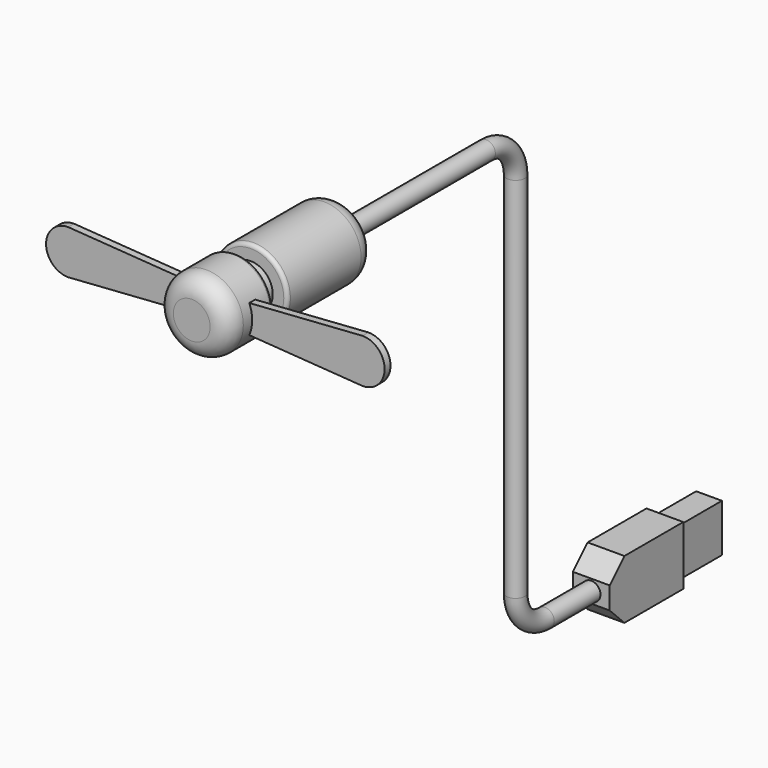
from build123d import *

# Parameters (mm, degrees)
F0_W      = 40
F0_H      = 16
F1_DEPTH  = 10
F3_R      = 2.5
F6_R      = 10
F7_DEPTH  = 50
F8_R      = 5
F9_SIZE   = 5
F10_W     = 10
F10_H     = 16
F10_W_2   = 7
F10_H_2   = 13
F11_DEPTH = 15
F13_R     = 10
F13_R_2   = 6
F14_DEPTH = 5
F15_R     = 1
F18_DEPTH = 2


with BuildPart() as f1:
    # F0 (on Right) → F1 (new body)
    with BuildSketch(Plane.YZ):
        Rectangle(F0_W, F0_H)
    extrude(amount=F1_DEPTH)

    # F5: sweep along a path in F4
    with BuildLine(Plane.YZ.offset(5)) as f5_path:
        Line((-19.998556003, 0), (-35.6984053552, 0))
        ThreePointArc((-35.6984053552, 0), (-42.7694731671, 2.9289321881), (-45.6984053552, 10))
        Line((-45.6984053552, 10), (-45.6984053552, 110))
        ThreePointArc((-45.6984053552, 110), (-48.6273375433, 117.0710678119), (-55.6984053552, 120))
        Line((-55.6984053552, 120), (-155.6984053552, 120))
    # F3 (on face) → F5 (sweep)
    with BuildSketch(Plane.XZ.offset(20)):
        with Locations((5, 0)):
            Circle(F3_R)
    sweep(path=f5_path.line)

    # F6 (on face) → F7 (join)
    with BuildSketch(Plane.XZ.offset(155.6998493522)):
        with Locations((5, 120)):
            Circle(F6_R)
    extrude(amount=-F7_DEPTH)

    # F8
    f8_edges = [f1.edges().sort_by_distance(p)[0] for p in [
        (-5, -105.699849, 120),
        (-5, -155.699849, 120),
    ]]
    fillet(f8_edges, radius=F8_R)

    # F9
    f9_edges = [f1.edges().sort_by_distance(p)[0] for p in [
        (5, -20, 8),
        (5, -20, -8),
    ]]
    chamfer(f9_edges, length=F9_SIZE)

    # F10 (on face) → F11 (cut)
    with BuildSketch(Plane(origin=(0, 20, 0), x_dir=(-1, 0, 0), z_dir=(0, 1, 0))):
        with Locations((-5, 0)):
            Rectangle(F10_W, F10_H)
        with Locations((-5, 0)):
            Rectangle(F10_W_2, F10_H_2, mode=Mode.SUBTRACT)
    extrude(amount=-F11_DEPTH, mode=Mode.SUBTRACT)

    # F13 (on offset) → F14 (cut)
    with BuildSketch(Plane(origin=(0, -135.6998493522, 0), x_dir=(-1, 0, 0), z_dir=(0, 1, 0))):
        with Locations((-5, 120)):
            Circle(F13_R)
        with Locations((-5, 120)):
            Circle(F13_R_2, mode=Mode.SUBTRACT)
    extrude(amount=-F14_DEPTH, mode=Mode.SUBTRACT)

    # F15
    f15_edges = [f1.edges().sort_by_distance(p)[0] for p in [
        (-5, -135.699849, 120),
        (-5, -140.699849, 120),
    ]]
    fillet(f15_edges, radius=F15_R)

    # F17 (on offset) → F18 (join)
    with BuildSketch(Plane(origin=(0, -145.6998493522, 0), x_dir=(-1, 0, 0), z_dir=(0, 1, 0))):
        with BuildLine():
            ThreePointArc((-0.1567504958, 123.5416005195), (1, 120), (-0.1567504958, 116.4583994805))
            Line((-0.1567504958, 116.4583994805), (35, 114))
            ThreePointArc((35, 114), (41, 120), (35, 126))
            Line((35, 126), (-0.1567504958, 123.5416005195))
        make_face()
        with BuildLine():
            Line((-45, 114), (-9.8432495042, 116.4583994805))
            ThreePointArc((-9.8432495042, 116.4583994805), (-11, 120), (-9.8432495042, 123.5416005195))
            Line((-9.8432495042, 123.5416005195), (-45, 126))
            ThreePointArc((-45, 126), (-51, 120), (-45, 114))
        make_face()
    extrude(amount=-F18_DEPTH)


solid = f1.part
